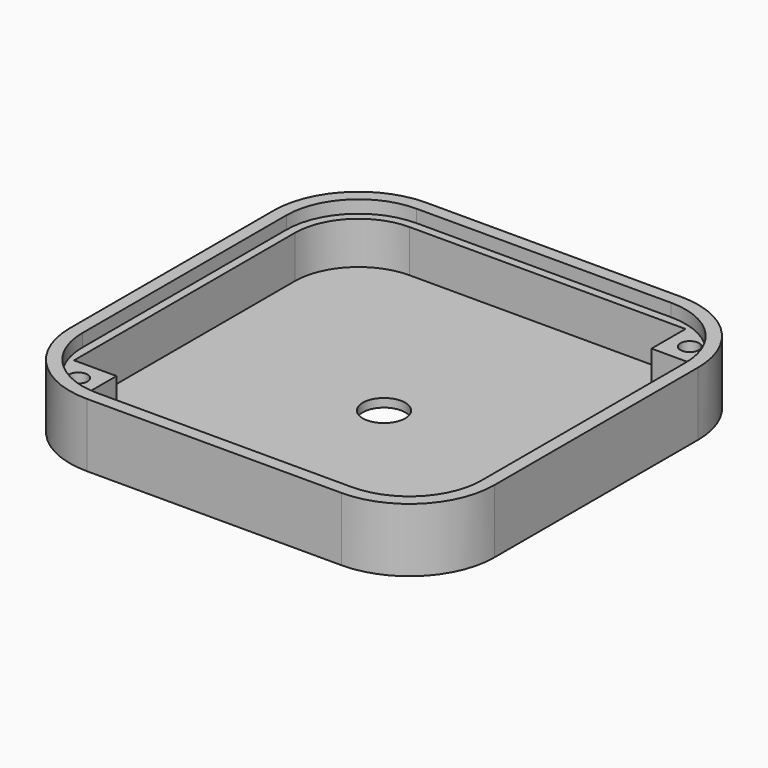
from build123d import *

# Parameters (mm, degrees)
SKETCH_W        = 100
SKETCH_H        = 100
PAD_DEPTH       = 15
FILLET_R        = 20
POCKET_DEPTH    = 3
POCKET001_DEPTH = 10
SKETCH003_R     = 2.2
POCKET002_DEPTH = 12.001
SKETCH004_R     = 5
POCKET003_DEPTH = 2.001


with BuildPart() as part:
    # Sketch → Pad (new body)
    with BuildSketch(Plane.XY):
        Rectangle(SKETCH_W, SKETCH_H)
    extrude(amount=PAD_DEPTH)

    # Fillet
    fillet_edges = [part.edges().sort_by_distance(p)[0] for p in [
        (-50, 50, 7.5),
        (50, 50, 7.5),
        (50, -50, 7.5),
        (-50, -50, 7.5),
    ]]
    fillet(fillet_edges, radius=FILLET_R)

    # Sketch001 (on Face5 of Fillet) → Pocket (cut)
    with BuildSketch(Plane.XY.offset(15)):
        with BuildLine():
            Line((-30, 47), (30, 47))
            ThreePointArc((47, 30), (42.020815, 42.020815), (30, 47))
            Line((47, 30), (47, -30))
            ThreePointArc((30, -47), (42.020815, -42.020815), (47, -30))
            Line((30, -47), (-30, -47))
            ThreePointArc((-47, -30), (-42.020815, -42.020815), (-30, -47))
            Line((-47, -30), (-47, 30))
            ThreePointArc((-30, 47), (-42.020815, 42.020815), (-47, 30))
        make_face()
    extrude(amount=-POCKET_DEPTH, mode=Mode.SUBTRACT)

    # Sketch002 (on Face19 of Pocket) → Pocket001 (cut)
    with BuildSketch(Plane.XY.offset(12)):
        with BuildLine():
            Line((35, 44.99997), (35, 34.99997))
            Line((35, 34.99997), (45, 34.99997))
            Line((45, 34.99997), (45, -29.99997))
            ThreePointArc((30, -44.99997), (40.606602, -40.606572), (45, -29.99997))
            Line((30, -44.99997), (-35, -44.99997))
            Line((-35, -44.99997), (-35, -34.99997))
            Line((-35, -34.99997), (-45, -34.99997))
            Line((-45, -34.99997), (-45, 29.99997))
            ThreePointArc((-30, 44.99997), (-40.606602, 40.606572), (-45, 29.99997))
            Line((-30, 44.99997), (35, 44.99997))
        make_face()
    extrude(amount=-POCKET001_DEPTH, mode=Mode.SUBTRACT)

    # Sketch003 (on Face19 of Pocket001) → Pocket002 (cut, through all)
    with BuildSketch(Plane.XY.offset(12)):
        with Locations((-40, -40)):
            Circle(SKETCH003_R)
        with Locations((40, 40)):
            Circle(SKETCH003_R)
    extrude(amount=-POCKET002_DEPTH, mode=Mode.SUBTRACT)

    # Sketch004 (on Face32 of Pocket002) → Pocket003 (cut, through all)
    with BuildSketch(Plane.XY.offset(2)):
        Circle(SKETCH004_R)
    extrude(amount=-POCKET003_DEPTH, mode=Mode.SUBTRACT)


solid = part.part
